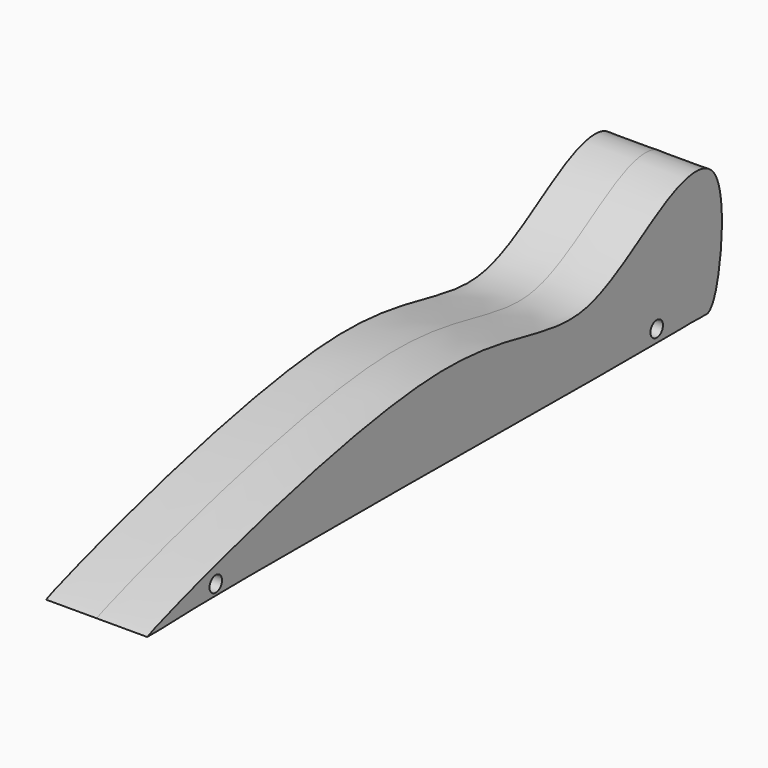
from build123d import *

# Parameters (mm, degrees)
F0_R     = 3.25
F1_DEPTH = 21


with BuildPart() as f1:
    # F0 (on Right) → F1 (new body, symmetric)
    with BuildSketch(Plane.YZ):
        with BuildLine():
            Line((136.6134881973, -35), (141.0072743893, -35))
            add(Edge.make_bspline(
                [(-150, -35), (-143.521432119, -31.5899914271), (10.3152806182, 19.2700337041), (73.7584450026, -21.8383696456), (119.4363588143, 19.500532669), (151.4195989104, 21.7591611021), (147.9470100586, -25.5021679239), (142.9468632514, -34.1878632847), (141.0072743893, -35)],
                knots=[0, 0, 0, 0, 0.1577963695, 0.2698378412, 0.3612199121, 0.4200352777, 0.5009651037, 0.542400213, 0.542400213, 0.542400213, 0.542400213], degree=3))
            Line((-150, -35), (-143.6471343041, -35))
            add(Edge.make_bspline(
                [(82.6327130198, -35), (44.0813217, -34.7974392039), (-110.5771163607, -33.2154831353), (-143.647134304, -35)],
                knots=[0.7766960605, 0.7766960605, 0.7766960605, 0.7766960605, 0.9679535233, 0.9679535233, 0.9679535233, 0.9679535233], degree=3))
            Line((82.6327130198, -35), (98.3247980476, -35))
            add(Edge.make_bspline(
                [(106.070105735, -35), (103.2578016771, -34.9986643434), (100.5188343993, -34.992966589), (98.3247980475, -35)],
                knots=[0.6942033252, 0.6942033252, 0.6942033252, 0.6942033252, 0.7263302557, 0.7263302557, 0.7263302557, 0.7263302557], degree=3))
            Line((106.070105735, -35), (108.0538854003, -35))
            add(Edge.make_bspline(
                [(118.410654366, -35), (115.1786800416, -34.9822247943), (111.6464645923, -34.9979001154), (108.0538854003, -35)],
                knots=[0.6457548332, 0.6457548332, 0.6457548332, 0.6457548332, 0.6866721923, 0.6866721923, 0.6866721923, 0.6866721923], degree=3))
            Line((118.410654366, -35), (127.1982342005, -35))
            add(Edge.make_bspline(
                [(136.6134881973, -35), (133.9833282751, -34.7600033101), (130.3947940435, -34.9367255147), (127.1982342005, -35)],
                knots=[0.5690512991, 0.5690512991, 0.5690512991, 0.5690512991, 0.6080644899, 0.6080644899, 0.6080644899, 0.6080644899], degree=3))
        make_face()
        with Locations((-114.3927797675, -30.0444308668)):
            Circle(F0_R, mode=Mode.SUBTRACT)
        with Locations((114.5793870091, -29.8578217626)):
            Circle(F0_R, mode=Mode.SUBTRACT)
    extrude(amount=F1_DEPTH, both=True)


solid = f1.part
